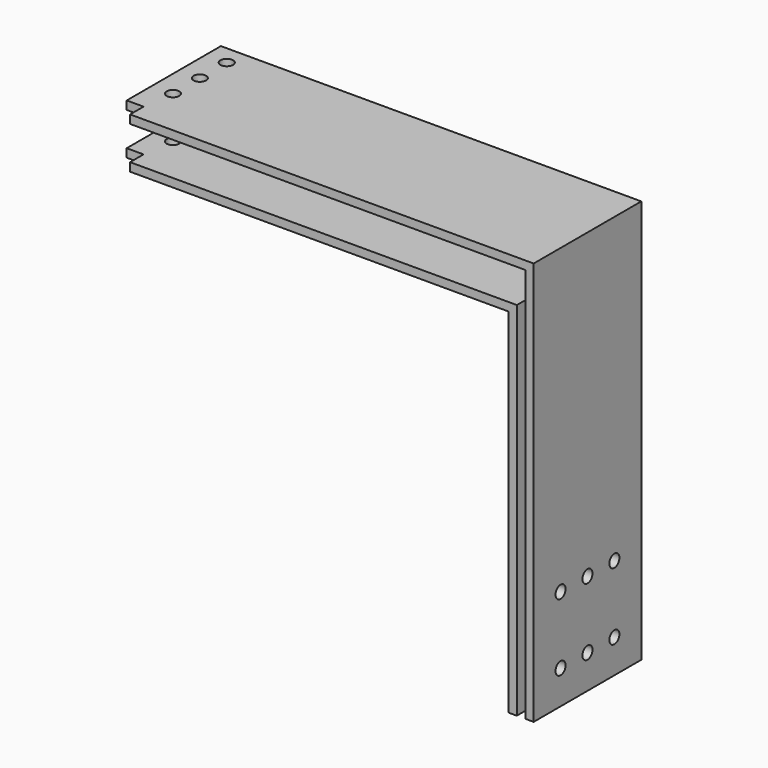
from build123d import *

# Parameters (mm, degrees)
F1_DEPTH = 50.8
F2_R     = 4.7625
F3_DEPTH = 317.501
F4_R     = 4.7625
F4_W     = 12.7
F4_H     = 12.7
F5_DEPTH = 304.801


with BuildPart() as f1:
    # F0 (on Front) → F1 (new body, symmetric)
    with BuildSketch(Plane.XZ):
        Polygon((304.8, -31.75), (0, -31.75), (0, -38.1), (298.45, -38.1), (298.45, -304.8), (304.8, -304.8), align=None)
        Polygon((0, -6.35), (311.15, -6.35), (311.15, -304.8), (317.5, -304.8), (317.5, 0), (0, 0), align=None)
    extrude(amount=F1_DEPTH, both=True)

    # F2 (on face) → F3 (cut, through all)
    with BuildSketch(Plane.YZ.offset(317.5)):
        with Locations((-25.4, -279.4)):
            Circle(F2_R)
        with Locations((-25.4, -228.6)):
            Circle(F2_R)
        with Locations((0, -279.4)):
            Circle(F2_R)
        with Locations((0, -228.6)):
            Circle(F2_R)
        with Locations((25.4, -279.4)):
            Circle(F2_R)
        with Locations((25.4, -228.6)):
            Circle(F2_R)
    extrude(amount=-F3_DEPTH, mode=Mode.SUBTRACT)

    # F4 (on face) → F5 (cut, through all)
    with BuildSketch(Plane.XY):
        with Locations((15.875, -14.2875)):
            Circle(F4_R)
        with Locations((15.875, 11.1125)):
            Circle(F4_R)
        with Locations((15.875, 36.5125)):
            Circle(F4_R)
        with Locations((6.35, -44.45)):
            Rectangle(F4_W, F4_H)
    extrude(amount=-F5_DEPTH, mode=Mode.SUBTRACT)


solid = f1.part
